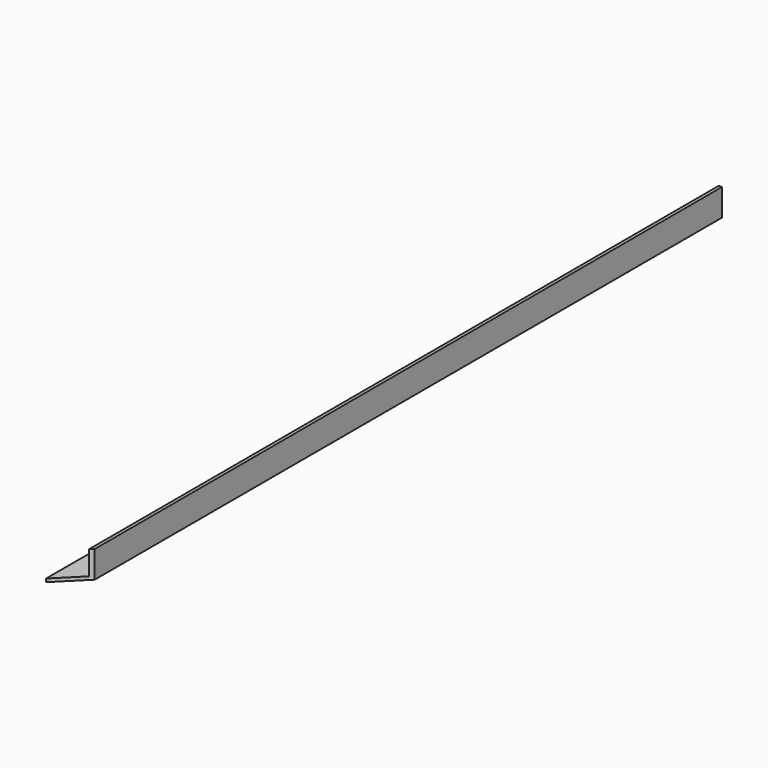
from build123d import *

# Parameters (mm, degrees)
F1_DEPTH = 750
F3_DEPTH = 25


with BuildPart() as f1:
    # F0 (on Front) → F1 (new body)
    with BuildSketch(Plane.XZ):
        Polygon((5.032131, -5.975653), (-16.967869, -5.975653), (-16.967869, -8.975653), (8.032131, -8.975653), (8.032131, 16.024347), (5.032131, 16.024347), align=None)
    extrude(amount=F1_DEPTH)

    # F2 (on face) → F3 (cut)
    with BuildSketch(Plane(origin=(0, 0, -8.975653), x_dir=(1, 0, 0), z_dir=(0, 0, -1))):
        Polygon((8.032131, 750), (-16.967869, 750), (8.032131, 725), align=None)
    extrude(amount=-F3_DEPTH, mode=Mode.SUBTRACT)


solid = f1.part
